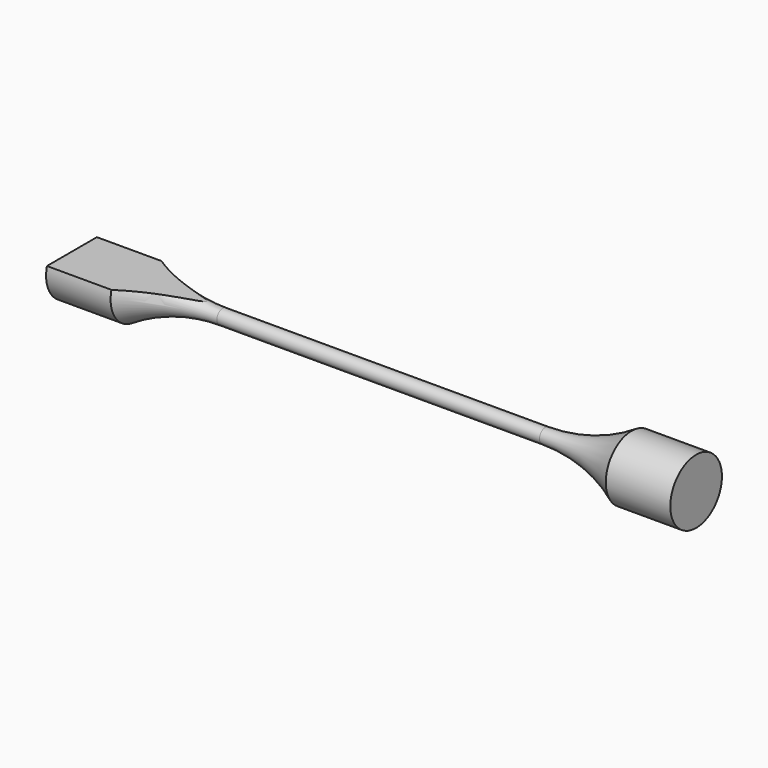
from build123d import *

# Parameters (mm, degrees)
F3_W     = 5.571197
F3_H     = 3.305577
F4_DEPTH = 2.35


with BuildPart() as f1:
    # F0 (on Front) → F1 (revolve)
    with BuildSketch(Plane.XZ):
        with BuildLine():
            Line((0, 1), (0, 0))
            Line((0, 0), (9.673832, 0))
            Line((9.673832, 0), (19.347663, 0))
            Line((19.347663, 0), (19.347663, 1))
            Line((19.347663, 1), (17.347663, 1))
            ThreePointArc((17.347663, 1), (16.065773, 0.422657), (14.673832, 0.225))
            Line((14.673832, 0.225), (9.673832, 0.225))
            Line((9.673832, 0.225), (4.673832, 0.225))
            ThreePointArc((4.673832, 0.225), (3.28189, 0.422657), (2, 1))
            Line((2, 1), (0, 1))
        make_face()
    revolve(axis=Axis((3.460914, 0, 0), (-1, 0, 0)))

    # F3 (on offset) → F4 (cut)
    with BuildSketch(Plane.XY.offset(2.6)):
        with Locations((2.198237, 0.098479)):
            Rectangle(F3_W, F3_H)
    extrude(amount=-F4_DEPTH, mode=Mode.SUBTRACT)


solid = f1.part
